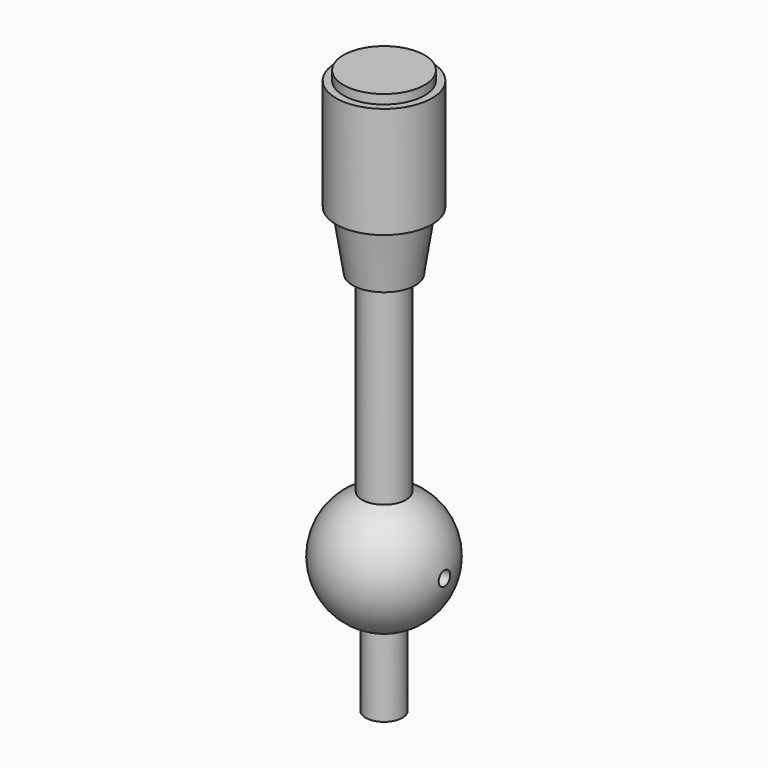
from build123d import *

# Parameters (mm, degrees)
F3_D     = 1.95
F3_DEPTH = 8.75
F3_TIP   = 0.5858391036


with BuildPart() as f1:
    # F0 (on Front) → F1 (revolve)
    with BuildSketch(Plane.XZ):
        with BuildLine():
            Line((0, -18.5), (0, 0))
            Line((0, 0), (0, 58))
            Line((0, 58), (-5.5, 58))
            Line((-5.5, 58), (-5.5, 56.75))
            Line((-5.5, 56.75), (-6.5, 56.75))
            Line((-6.5, 56.75), (-6.5, 41.6852130745))
            Line((-6.5, 41.6852130745), (-5.5, 41.6852130745))
            Line((-5.5, 41.6852130745), (-4.25, 33.6852130745))
            Line((-4.25, 33.6852130745), (-3, 33.6852130745))
            Line((-3, 33.6852130745), (-3, 7.6852130745))
            ThreePointArc((-3, 7.6852130745), (-8.245736984, -0.2651821852), (-2.5, -7.8620925968))
            Line((-2.5, -7.8620925968), (-2.5, -18.5))
            Line((-2.5, -18.5), (0, -18.5))
        make_face()
    revolve(axis=Axis((0, 0, 29), (0, 0, 1)))

    # F3 (one way)
    with BuildSketch(Plane(origin=(0, 0, 0), x_dir=(0, 1, 0), z_dir=(-1, 0, 0))):
        with Locations((0, 0)):
            Circle(F3_D / 2)
    extrude(amount=-F3_DEPTH, mode=Mode.SUBTRACT)
    with Locations(Plane(origin=(0, 0, 0), x_dir=(0, 1, 0), z_dir=(-1, 0, 0))):
        with Locations((0, 0)):
            with Locations((0, 0, -(F3_DEPTH + F3_TIP / 2))):  # 118° drill point
                Cone(0, F3_D / 2, F3_TIP, mode=Mode.SUBTRACT)


solid = f1.part
